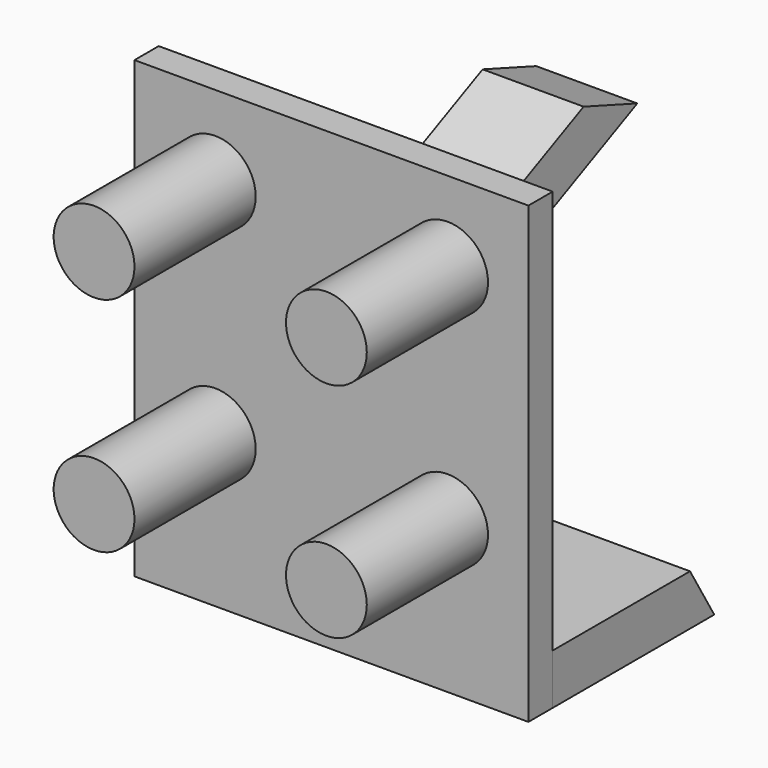
from build123d import *

# Parameters (mm, degrees)
BOX_W                  = 39
BOX_H                  = 3
BOX_DEPTH              = 45
CYLINDER_R             = 4
CYLINDER_DEPTH         = 15
CYLINDER_ROLL_ANGLE    = 90
CYLINDER001_R          = 4
CYLINDER001_DEPTH      = 15
CYLINDER001_ROLL_ANGLE = 90
CYLINDER002_R          = 4
CYLINDER002_DEPTH      = 15
CYLINDER002_ROLL_ANGLE = 90
CYLINDER003_R          = 4
CYLINDER003_DEPTH      = 15
CYLINDER003_ROLL_ANGLE = 90
BOX002_W               = 10
BOX002_H               = 15
BOX002_DEPTH           = 5
PAD_DEPTH              = 40
BOX001_W               = 39
BOX001_H               = 20
BOX001_DEPTH           = 5
BOX003_W               = 10
BOX003_H               = 15
BOX003_DEPTH           = 5
BOX003_PLACEMENT_ANGLE = 25
CHAMFER_SIZE           = 4.99


with BuildPart() as base:
    # Box → Box (new body)
    with BuildSketch(Plane(origin=(-8, 0, -15), x_dir=(1, 0, 0), z_dir=(0, 0, 1))):
        with Locations((19.5, 1.5)):
            Rectangle(BOX_W, BOX_H)
    extrude(amount=BOX_DEPTH)


with BuildPart() as pin2:
    # Cylinder → Cylinder (new body)
    with BuildSketch(Plane.XY):
        Circle(CYLINDER_R)
    extrude(amount=CYLINDER_DEPTH)


with BuildPart() as pin2_1:
    # Cylinder roll: moved
    add(pin2.part.rotate(Axis((0, 0, 0), (1, 0, 0)), CYLINDER_ROLL_ANGLE))


with BuildPart() as pin2_2:
    # Cylinder placement: moved
    add(pin2_1.part.moved(Location((23, 0, 0))))


with BuildPart() as pin1:
    # Cylinder001 → Cylinder001 (new body)
    with BuildSketch(Plane.XY):
        Circle(CYLINDER001_R)
    extrude(amount=CYLINDER001_DEPTH)


with BuildPart() as pin1_1:
    # Cylinder001 roll: moved
    add(pin1.part.rotate(Axis((0, 0, 0), (1, 0, 0)), CYLINDER001_ROLL_ANGLE))


with BuildPart() as pin1_2:
    # Cylinder001 placement: moved
    add(pin1_1.part)


with BuildPart() as pin3:
    # Cylinder002 → Cylinder002 (new body)
    with BuildSketch(Plane.XY):
        Circle(CYLINDER002_R)
    extrude(amount=CYLINDER002_DEPTH)


with BuildPart() as pin3_1:
    # Cylinder002 roll: moved
    add(pin3.part.rotate(Axis((0, 0, 0), (1, 0, 0)), CYLINDER002_ROLL_ANGLE))


with BuildPart() as pin3_2:
    # Cylinder002 placement: moved
    add(pin3_1.part.moved(Location((0, 0, 22))))


with BuildPart() as pin4:
    # Cylinder003 → Cylinder003 (new body)
    with BuildSketch(Plane.XY):
        Circle(CYLINDER003_R)
    extrude(amount=CYLINDER003_DEPTH)


with BuildPart() as pin4_1:
    # Cylinder003 roll: moved
    add(pin4.part.rotate(Axis((0, 0, 0), (1, 0, 0)), CYLINDER003_ROLL_ANGLE))


with BuildPart() as pin4_2:
    # Cylinder003 placement: moved
    add(pin4_1.part.moved(Location((23, 0, 22))))


with BuildPart() as hook:
    # Box002 → Box002 (new body)
    with BuildSketch(Plane(origin=(6.5, 3, 15), x_dir=(1, 0, 0), z_dir=(0, 0, 1))):
        with Locations((5, 7.5)):
            Rectangle(BOX002_W, BOX002_H)
    extrude(amount=BOX002_DEPTH)


with BuildPart() as pad:
    # Sketch → Pad (new body)
    with BuildSketch(Plane(origin=(32, 23, -5), x_dir=(0, 1, 0), z_dir=(1, 0, 0))):
        Polygon((0, -5), (-3, -5), (0, -10), align=None)
    extrude(amount=-PAD_DEPTH)


with BuildPart() as cut:
    # Box001 → Box001 (new body)
    with BuildSketch(Plane(origin=(-8, 3, -15), x_dir=(1, 0, 0), z_dir=(0, 0, 1))):
        with Locations((19.5, 10)):
            Rectangle(BOX001_W, BOX001_H)
    extrude(amount=BOX001_DEPTH)

    # Cut: cut Pad
    add(pad.part, mode=Mode.SUBTRACT)


with BuildPart() as chamfer_body:
    # Box003 → Box003 (new body)
    with BuildSketch(Plane.XY):
        with Locations((5, 7.5)):
            Rectangle(BOX003_W, BOX003_H)
    extrude(amount=BOX003_DEPTH)


with BuildPart() as chamfer_body_1:
    # Box003 placement: moved
    add(chamfer_body.part.moved(Location((6.5, 18, 15))).rotate(Axis((6.5, 18, 15), (1, 0, 0)), BOX003_PLACEMENT_ANGLE))

    # Chamfer
    chamfer_edges = [chamfer_body_1.edges().sort_by_distance(p)[0] for p in [
        (11.5, 29.481525, 25.870813),
    ]]
    chamfer(chamfer_edges, length=CHAMFER_SIZE)


solid = Compound([base.part, pin2_2.part, pin1_2.part, pin3_2.part, pin4_2.part, hook.part, cut.part, chamfer_body_1.part])
